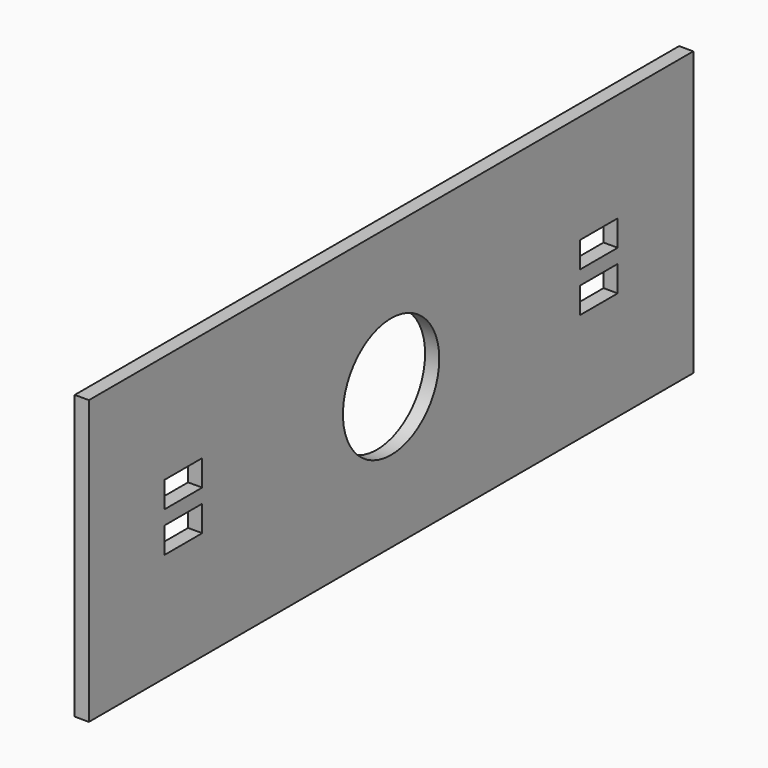
from build123d import *

# Parameters (mm, degrees)
F1_DEPTH = 3
F2_W     = 10
F2_H     = 5.5
F3_DEPTH = 25
F4_R     = 12.75
F5_DEPTH = 25


with BuildPart() as f1:
    # F0 (on Right) → F1 (new body)
    with BuildSketch(Plane.YZ):
        Polygon((80, 30), (0, 30), (-80, 30), (-80, -30), (0, -30), (80, -30), align=None)
    extrude(amount=F1_DEPTH)

    # F2 (on face) → F3 (cut)
    with BuildSketch(Plane.YZ.offset(3)):
        with Locations((-55, -4.25)):
            Rectangle(F2_W, F2_H)
        with Locations((-55, 4.25)):
            Rectangle(F2_W, F2_H)
        with Locations((55, 4.25)):
            Rectangle(F2_W, F2_H)
        with Locations((55, -4.25)):
            Rectangle(F2_W, F2_H)
    extrude(amount=-F3_DEPTH, mode=Mode.SUBTRACT)

    # F4 (on face) → F5 (cut)
    with BuildSketch(Plane.YZ.offset(3)):
        Circle(F4_R)
    extrude(amount=-F5_DEPTH, mode=Mode.SUBTRACT)


solid = f1.part
